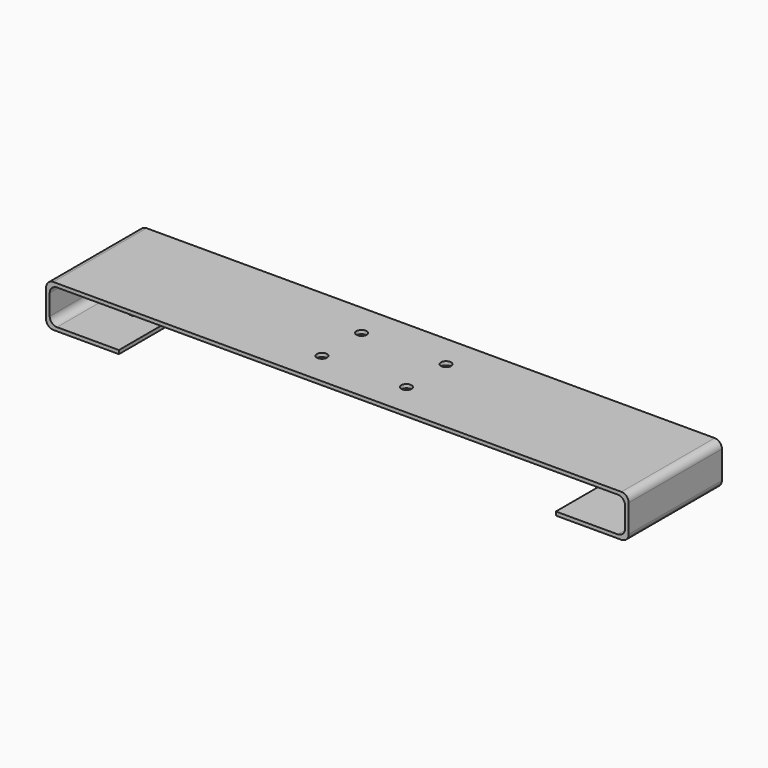
from build123d import *

# Parameters (mm, degrees)
F1_DEPTH = 40
F4_D     = 9
F4_DEPTH = 12
F5_D     = 9
F5_DEPTH = 12
F7_D     = 7
F8_R     = 5


with BuildPart() as f1:
    # F0 (on Front) → F1 (new body, symmetric)
    with BuildSketch(Plane.XZ):
        Polygon((0, 29), (0, 0), (50, 0), (50, 2.5), (2.5, 2.5), (2.5, 26.5), (397.5, 26.5), (397.5, 2.5), (350, 2.5), (350, 0), (400, 0), (400, 29), align=None)
    extrude(amount=F1_DEPTH, both=True)

    # F4
    with Locations(Plane.XY.offset(2.5)):
        with Locations((370, 0)):
            Hole(F4_D / 2, depth=F4_DEPTH)

    # F5
    with Locations(Plane.XY.offset(2.5)):
        with Locations((30, 0)):
            Hole(F5_D / 2, depth=F5_DEPTH)

    # F7 (through all)
    with Locations(Plane.XY.offset(29)):
        with Locations((171, 17), (229, 17), (229, -17), (171, -17)):
            Hole(F7_D / 2)

    # F8
    f8_edges = [f1.edges().sort_by_distance(p)[0] for p in [
        (0, 0, 29),
        (0, 0, 0),
        (400, 0, 29),
        (400, 0, 0),
        (2.5, 0, 2.5),
        (2.5, 0, 26.5),
        (397.5, 0, 2.5),
        (397.5, 0, 26.5),
    ]]
    fillet(f8_edges, radius=F8_R)


solid = f1.part
